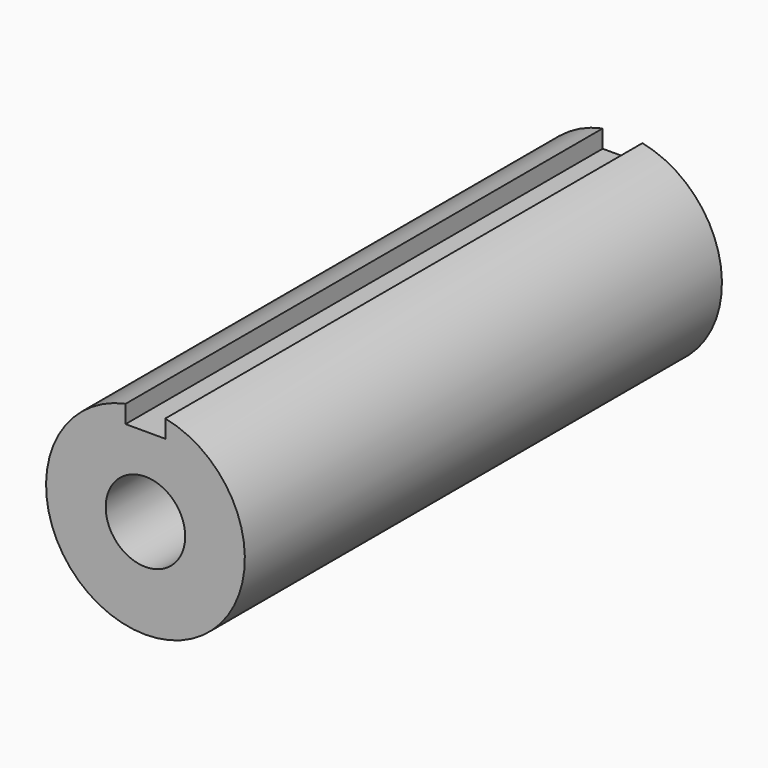
from build123d import *

# Parameters (mm, degrees)
F1_DEPTH = 76.2
F2_R     = 5.08
F3_DEPTH = 76.2


with BuildPart() as f1:
    # F0 (on Front) → F1 (new body)
    with BuildSketch(Plane.XZ):
        with BuildLine():
            Line((-2.54, 10.16), (-2.54, 12.443408))
            ThreePointArc((-2.54, 12.443408), (0, -12.7), (2.54, 12.443408))
            Line((2.54, 12.443408), (2.54, 10.16))
            Line((2.54, 10.16), (-2.54, 10.16))
        make_face()
    extrude(amount=F1_DEPTH)

    # F2 (on face) → F3 (cut, through all)
    with BuildSketch(Plane.XZ.offset(76.2)):
        Circle(F2_R)
    extrude(amount=-F3_DEPTH, mode=Mode.SUBTRACT)


solid = f1.part
